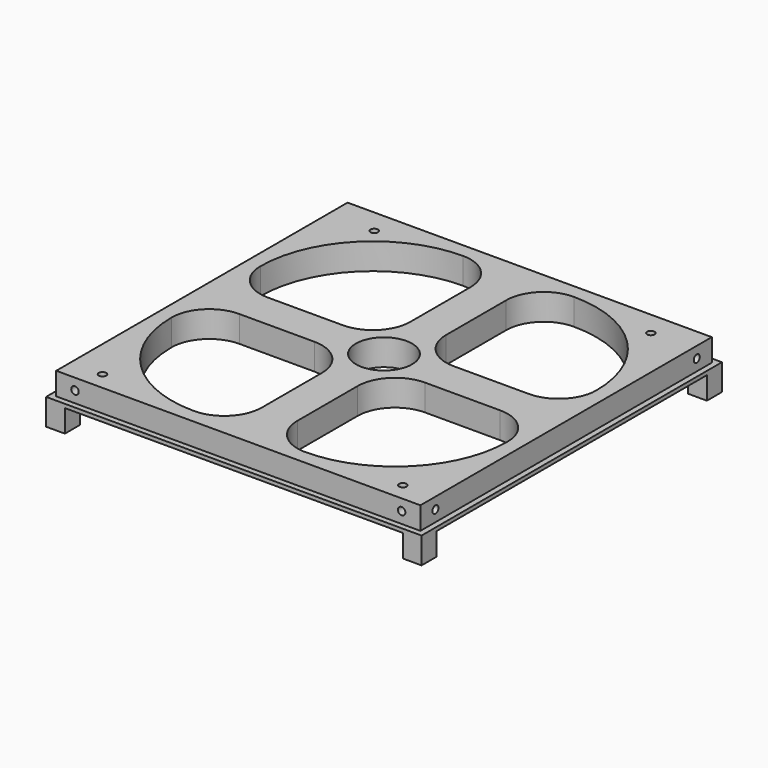
from build123d import *

# Parameters (mm, degrees)
F0_W            = 97
F0_H            = 97
F0_R            = 7.4829182058
F1_DEPTH        = 6
F0_W_2          = 100
F0_H_2          = 100
F1_FACE_W       = 97
F1_FACE_H       = 97
F1_FACE_R       = 7.4829182058
F2_DEPTH        = 1
F4_D            = 2
F4_DEPTH        = 20
F4_TIP          = 0.600860619
F6_D            = 2
F6_DEPTH        = 20
F6_TIP          = 0.600860619
F8_D            = 2
F8_DEPTH        = 20
F8_TIP          = 0.600860619
F10_D           = 2
F10_DEPTH       = 20
F10_TIP         = 0.600860619
F12_D           = 2
F12_CSINK_D     = 4
F12_CSINK_ANGLE = 90
F11_W           = 5
F11_H           = 5
F13_DEPTH       = 6


with BuildPart() as f1:
    # F0 (on Top) → F1 (new body)
    with BuildSketch(Plane.XY):
        Rectangle(F0_W, F0_H)
        with BuildLine():
            ThreePointArc((-14.75, -4.75), (-7.6789321881, -7.6789321881), (-4.75, -14.75))
            Line((-4.75, -14.75), (-4.75, -34.75))
            ThreePointArc((-4.75, -34.75), (-7.6789321881, -41.8210678119), (-14.75, -44.75))
            ThreePointArc((-14.75, -44.75), (-35.9632034356, -35.9632034356), (-44.75, -14.75))
            ThreePointArc((-44.75, -14.75), (-41.8210678119, -7.6789321881), (-34.75, -4.75))
            Line((-34.75, -4.75), (-14.75, -4.75))
        make_face(mode=Mode.SUBTRACT)
        with BuildLine():
            ThreePointArc((4.75, -14.75), (7.6789321881, -7.6789321881), (14.75, -4.75))
            Line((14.75, -4.75), (34.75, -4.75))
            ThreePointArc((34.75, -4.75), (41.8210678119, -7.6789321881), (44.75, -14.75))
            ThreePointArc((44.75, -14.75), (35.9632034356, -35.9632034356), (14.75, -44.75))
            ThreePointArc((14.75, -44.75), (7.6789321881, -41.8210678119), (4.75, -34.75))
            Line((4.75, -34.75), (4.75, -14.75))
        make_face(mode=Mode.SUBTRACT)
        with BuildLine():
            ThreePointArc((-4.75, 14.75), (-7.6789321881, 7.6789321881), (-14.75, 4.75))
            Line((-14.75, 4.75), (-34.75, 4.75))
            ThreePointArc((-34.75, 4.75), (-41.8210678119, 7.6789321881), (-44.75, 14.75))
            ThreePointArc((-44.75, 14.75), (-35.9632034356, 35.9632034356), (-14.75, 44.75))
            ThreePointArc((-14.75, 44.75), (-7.6789321881, 41.8210678119), (-4.75, 34.75))
            Line((-4.75, 34.75), (-4.75, 14.75))
        make_face(mode=Mode.SUBTRACT)
        Circle(F0_R, mode=Mode.SUBTRACT)
        with BuildLine():
            ThreePointArc((14.75, 4.75), (7.6789321881, 7.6789321881), (4.75, 14.75))
            Line((4.75, 14.75), (4.75, 34.75))
            ThreePointArc((4.75, 34.75), (7.6789321881, 41.8210678119), (14.75, 44.75))
            ThreePointArc((14.75, 44.75), (35.9632034356, 35.9632034356), (44.75, 14.75))
            ThreePointArc((44.75, 14.75), (41.8210678119, 7.6789321881), (34.75, 4.75))
            Line((34.75, 4.75), (14.75, 4.75))
        make_face(mode=Mode.SUBTRACT)
    extrude(amount=F1_DEPTH)

    # F0 (on Top) + F1_face (on face) → F2 (join)
    with BuildSketch(Plane.XY):
        Rectangle(F0_W_2, F0_H_2)
        Rectangle(F0_W, F0_H, mode=Mode.SUBTRACT)
    with BuildSketch(Plane.XY.offset(6)):
        Rectangle(F1_FACE_W, F1_FACE_H)
        with BuildLine():
            ThreePointArc((-44.75, -14.75), (-41.8210678119, -7.6789321881), (-34.75, -4.75))
            Line((-34.75, -4.75), (-14.75, -4.75))
            ThreePointArc((-14.75, -4.75), (-7.6789321881, -7.6789321881), (-4.75, -14.75))
            Line((-4.75, -14.75), (-4.75, -34.75))
            ThreePointArc((-4.75, -34.75), (-7.6789321881, -41.8210678119), (-14.75, -44.75))
            ThreePointArc((-14.75, -44.75), (-35.9632034356, -35.9632034356), (-44.75, -14.75))
        make_face(mode=Mode.SUBTRACT)
        with BuildLine():
            ThreePointArc((4.75, -14.75), (7.6789321881, -7.6789321881), (14.75, -4.75))
            Line((14.75, -4.75), (34.75, -4.75))
            ThreePointArc((34.75, -4.75), (41.8210678119, -7.6789321881), (44.75, -14.75))
            ThreePointArc((44.75, -14.75), (35.9632034356, -35.9632034356), (14.75, -44.75))
            ThreePointArc((14.75, -44.75), (7.6789321881, -41.8210678119), (4.75, -34.75))
            Line((4.75, -34.75), (4.75, -14.75))
        make_face(mode=Mode.SUBTRACT)
        with BuildLine():
            ThreePointArc((-4.75, 14.75), (-7.6789321881, 7.6789321881), (-14.75, 4.75))
            Line((-14.75, 4.75), (-34.75, 4.75))
            ThreePointArc((-34.75, 4.75), (-41.8210678119, 7.6789321881), (-44.75, 14.75))
            ThreePointArc((-44.75, 14.75), (-35.9632034356, 35.9632034356), (-14.75, 44.75))
            ThreePointArc((-14.75, 44.75), (-7.6789321881, 41.8210678119), (-4.75, 34.75))
            Line((-4.75, 34.75), (-4.75, 14.75))
        make_face(mode=Mode.SUBTRACT)
        Circle(F1_FACE_R, mode=Mode.SUBTRACT)
        with BuildLine():
            ThreePointArc((44.75, 14.75), (41.8210678119, 7.6789321881), (34.75, 4.75))
            Line((34.75, 4.75), (14.75, 4.75))
            ThreePointArc((14.75, 4.75), (7.6789321881, 7.6789321881), (4.75, 14.75))
            Line((4.75, 14.75), (4.75, 34.75))
            ThreePointArc((4.75, 34.75), (7.6789321881, 41.8210678119), (14.75, 44.75))
            ThreePointArc((14.75, 44.75), (35.9632034356, 35.9632034356), (44.75, 14.75))
        make_face(mode=Mode.SUBTRACT)
    extrude(amount=F2_DEPTH)

    # F4
    with Locations(Plane(origin=(0, 48.5, 0), x_dir=(-1, 0, 0), z_dir=(0, 1, 0))):
        with Locations((-43.5, 4), (43.5, 4)):
            Hole(F4_D / 2, depth=F4_DEPTH)
            with Locations((0, 0, -(F4_DEPTH + F4_TIP / 2))):  # 118° drill point
                Cone(0, F4_D / 2, F4_TIP, mode=Mode.SUBTRACT)

    # F6
    with Locations(Plane(origin=(-48.5, 0, 0), x_dir=(0, -1, 0), z_dir=(-1, 0, 0))):
        with Locations((-43.5, 4), (43.5, 4)):
            Hole(F6_D / 2, depth=F6_DEPTH)
            with Locations((0, 0, -(F6_DEPTH + F6_TIP / 2))):  # 118° drill point
                Cone(0, F6_D / 2, F6_TIP, mode=Mode.SUBTRACT)

    # F8
    with Locations(Plane.XZ.offset(48.5)):
        with Locations((-43.5, 4), (43.5, 4)):
            Hole(F8_D / 2, depth=F8_DEPTH)
            with Locations((0, 0, -(F8_DEPTH + F8_TIP / 2))):  # 118° drill point
                Cone(0, F8_D / 2, F8_TIP, mode=Mode.SUBTRACT)

    # F10
    with Locations(Plane.YZ.offset(48.5)):
        with Locations((-43.5, 4), (43.5, 4)):
            Hole(F10_D / 2, depth=F10_DEPTH)
            with Locations((0, 0, -(F10_DEPTH + F10_TIP / 2))):  # 118° drill point
                Cone(0, F10_D / 2, F10_TIP, mode=Mode.SUBTRACT)

    # F12 (through all)
    with Locations(Plane(origin=(0, 0, 0), x_dir=(1, 0, 0), z_dir=(0, 0, -1))):
        with Locations((-36.195, -42.0108908522), (-40.005, 43.7191091478), (40.005, 43.7191091478), (37.465, -42.0108908522)):
            CounterSinkHole(F12_D / 2, F12_CSINK_D / 2, counter_sink_angle=F12_CSINK_ANGLE)

    # F11 (on face) → F13 (join)
    with BuildSketch(Plane(origin=(0, 0, 0), x_dir=(1, 0, 0), z_dir=(0, 0, -1))):
        with Locations((-47.5, 47.5)):
            Rectangle(F11_W, F11_H)
        with Locations((47.5, 47.5)):
            Rectangle(F11_W, F11_H)
        with Locations((47.5, -47.5)):
            Rectangle(F11_W, F11_H)
        with Locations((-47.5, -47.5)):
            Rectangle(F11_W, F11_H)
    extrude(amount=F13_DEPTH)


solid = f1.part
